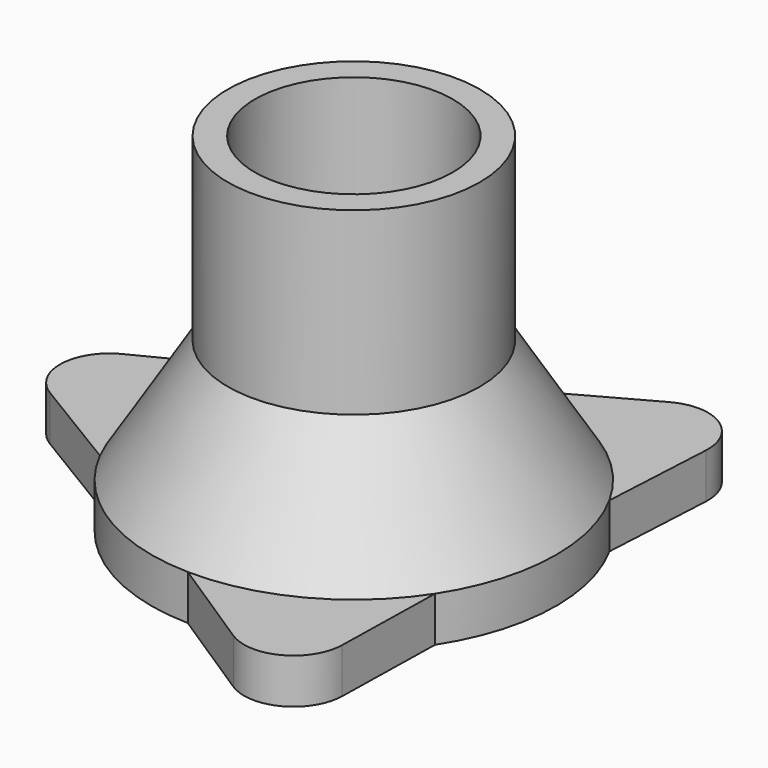
from build123d import *

# Parameters (mm, degrees)
F3_DEPTH = 5


with BuildPart() as f1:
    # F0 (on Front) → F1 (revolve)
    with BuildSketch(Plane.XZ):
        Polygon((17.5, 5), (17.5, 0), (22.5, 0), (22.5, 5), (14, 18.6705794185), (14, 38.6705794185), (11, 38.6705794185), (11, 18.6705794185), align=None)
    revolve(axis=Axis((0, 0, 27.3248925805), (0, 0, 1)))

    # F2 (on face) → F3 (join)
    with BuildSketch(Plane(origin=(0, 0, 0), x_dir=(1, 0, 0), z_dir=(0, 0, -1))):
        with BuildLine():
            Line((-20.0625025864, 10.1855775473), (-30.8284691029, 3.6702868888))
            ThreePointArc((-30.8284691029, 3.6702868888), (-33.4770991276, -1.2384805223), (-30.4730072235, -5.9381262893))
            Line((-30.4730072235, -5.9381262893), (-19.2550638119, -11.6401253258))
            ThreePointArc((-19.2550638119, -11.6401253258), (-22.484618817, -0.8318152762), (-20.0625025864, 10.1855775473))
        make_face()
        with BuildLine():
            ThreePointArc((19.7081761413, -10.8553117497), (11.9626825689, -19.0563434519), (1.2102823851, -22.4674256769))
            Line((1.2102823851, -22.4674256769), (12.2356728666, -28.5333808473))
            ThreePointArc((12.2356728666, -28.5333808473), (17.8111051582, -28.3727780283), (20.3790718292, -23.4213352406))
            Line((20.3790718292, -23.4213352406), (19.7081761413, -10.8553117497))
        make_face()
        with BuildLine():
            ThreePointArc((-0.4531123294, 22.4954370755), (10.5219362481, 19.888158728), (18.8522202013, 12.2818481297))
            Line((18.8522202013, 12.2818481297), (18.5927962363, 24.8630939585))
            ThreePointArc((18.5927962363, 24.8630939585), (15.6659939694, 29.6112585506), (10.0939353944, 29.35946153))
            Line((10.0939353944, 29.35946153), (-0.4531123294, 22.4954370755))
        make_face()
    extrude(amount=-F3_DEPTH)


solid = f1.part
